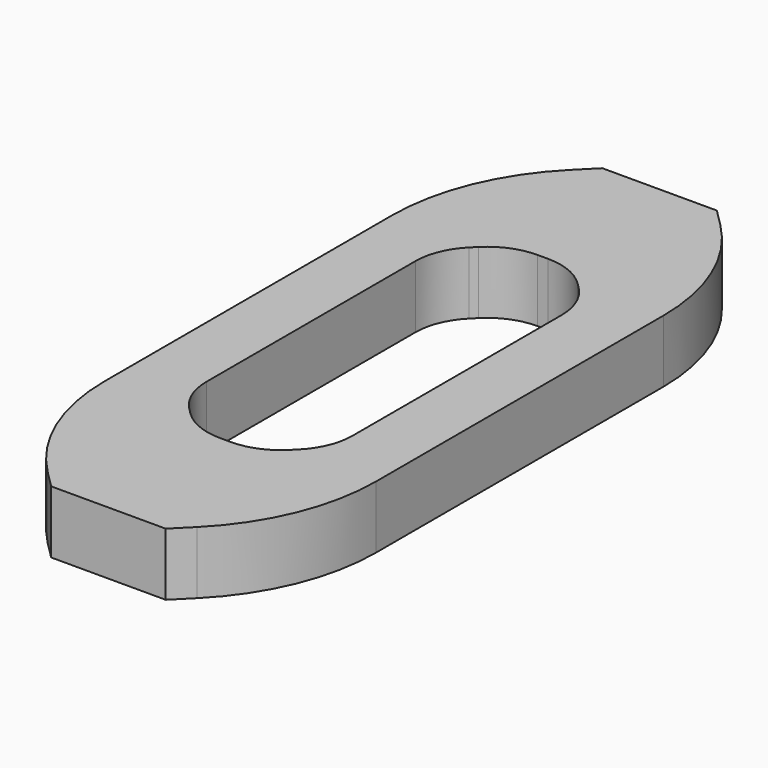
from build123d import *

# Parameters (mm, degrees)
F1_DEPTH = 3
F2_R     = 3
F3_R     = 10


with BuildPart() as f1:
    # F0 (on Top) → F1 (new body)
    with BuildSketch(Plane.XY):
        Polygon((-6.5, 12.742641), (-6.5, 8.742641), (-6.5, -8.742641), (-6.5, -12.742641), (-2.742641, -16.5), (0, -16.5), (2.742641, -16.5), (6.5, -12.742641), (6.5, -8.742641), (6.5, 8.742641), (6.5, 12.742641), (2.742641, 16.5), (0, 16.5), (-2.742641, 16.5), align=None)
        Polygon((-3.5, 7.5), (-1.5, 9.5), (1.5, 9.5), (3.5, 7.5), (3.5, -7.5), (1.5, -9.5), (-1.5, -9.5), (-3.5, -7.5), align=None, mode=Mode.SUBTRACT)
    extrude(amount=F1_DEPTH)

    # F2
    f2_edges = [f1.edges().sort_by_distance(p)[0] for p in [
        (-3.5, 7.5, 1.5),
        (3.5, 7.5, 1.5),
        (3.5, -7.5, 1.5),
        (-3.5, -7.5, 1.5),
        (-1.5, 9.5, 1.5),
        (1.5, 9.5, 1.5),
        (1.5, -9.5, 1.5),
        (-1.5, -9.5, 1.5),
    ]]
    fillet(f2_edges, radius=F2_R)

    # F3
    f3_edges = [f1.edges().sort_by_distance(p)[0] for p in [
        (-6.5, 12.742641, 1.5),
        (6.5, 12.742641, 1.5),
        (6.5, -12.742641, 1.5),
        (-6.5, -12.742641, 1.5),
    ]]
    fillet(f3_edges, radius=F3_R)


solid = f1.part
